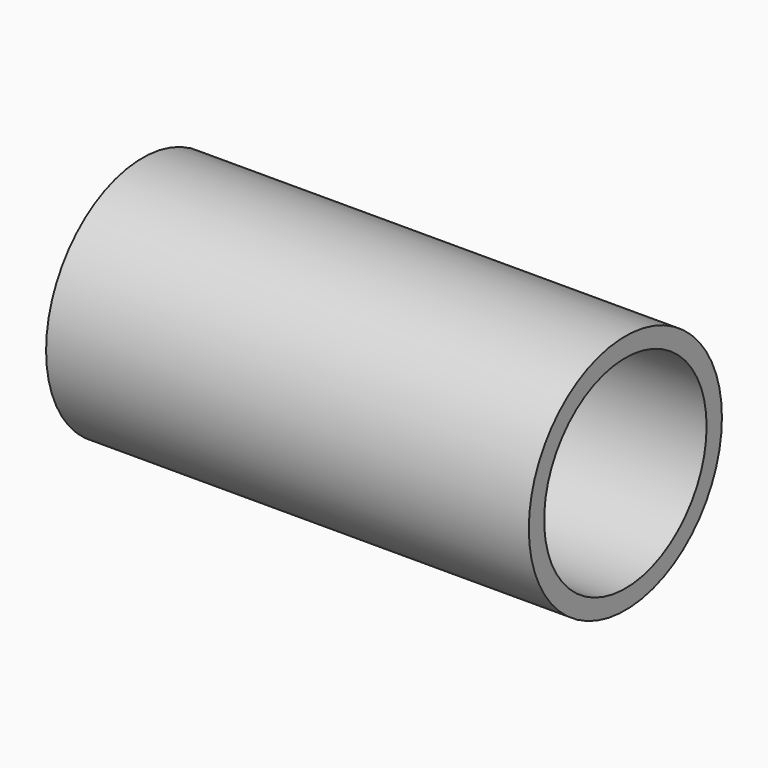
from build123d import *

# Parameters (mm, degrees)
F0_R     = 9.525
F0_R_2   = 8.0137
F1_DEPTH = 19.05
F2_R     = 2.54
F3_DEPTH = 8.80237


with BuildPart() as f1:
    # F0 (on Right) → F1 (new body, symmetric)
    with BuildSketch(Plane.YZ):
        Circle(F0_R)
        Circle(F0_R_2, mode=Mode.SUBTRACT)
    extrude(amount=F1_DEPTH, both=True)

    # F2 (on Top) → F3 (join, symmetric)
    with BuildSketch(Plane.XY):
        with Locations((-5.08, 0)):
            Circle(F2_R)
    extrude(amount=F3_DEPTH, both=True)


solid = f1.part
